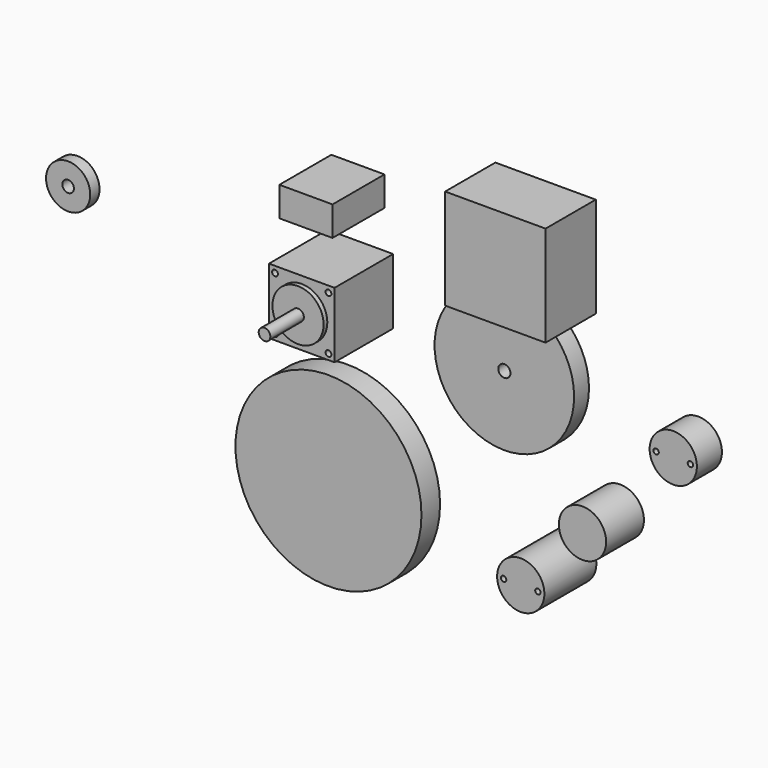
from build123d import *

# Parameters (mm, degrees)
F0_R      = 2.5
F1_DEPTH  = 51.5
F0_R_2    = 11
F2_DEPTH  = 33.5
F0_W      = 28.2
F0_H      = 28.2
F0_R_3    = 1.25
F3_DEPTH  = 31.5
F4_R      = 30
F4_R_2    = 2.6221966913
F5_DEPTH  = 8
F6_R      = 40
F7_DEPTH  = 10
F8_R      = 1.143
F9_DEPTH  = 27.94
F10_DEPTH = 20.32
F12_W     = 43.18
F12_H     = 43.18
F13_DEPTH = 27
F14_W     = 22.86
F14_H     = 12.7
F15_DEPTH = 27.94
F8_R_2    = 10.16
F16_DEPTH = 13.462
F6_R_2    = 9.5
F6_R_3    = 2.5
F17_DEPTH = 5


with BuildPart() as f1:
    # F0 (on Front) → F1 (new body)
    with BuildSketch(Plane.XZ):
        with Locations((-50.5721733682, 23.0338863699)):
            Circle(F0_R)
    extrude(amount=F1_DEPTH)

    # F0 (on Front) → F2 (join)
    with BuildSketch(Plane.XZ):
        with Locations((-50.5721733682, 23.0338863699)):
            Circle(F0_R_2)
        with Locations((-50.5721733682, 23.0338863699)):
            Circle(F0_R, mode=Mode.SUBTRACT)
    extrude(amount=F2_DEPTH)

    # F0 (on Front) → F3 (join)
    with BuildSketch(Plane.XZ):
        with Locations((-50.5721733682, 23.0338863699)):
            Rectangle(F0_W, F0_H)
        with Locations((-62.0710501321, 11.4279121988)):
            Circle(F0_R_3, mode=Mode.SUBTRACT)
        with Locations((-50.5721733682, 23.0338863699)):
            Circle(F0_R_2, mode=Mode.SUBTRACT)
        with BuildLine():
            ThreePointArc((-37.8210501321, 11.4279121988), (-39.0710501321, 10.1779121988), (-40.3210501321, 11.4279121988))
            ThreePointArc((-40.3210501321, 11.4279121988), (-39.0710501321, 12.6779121988), (-37.8210501321, 11.4279121988))
        make_face(mode=Mode.SUBTRACT)
        with Locations((-62.074133508, 34.4279121988)):
            Circle(F0_R_3, mode=Mode.SUBTRACT)
        with BuildLine():
            ThreePointArc((-37.824133508, 34.4279121988), (-39.074133508, 33.1779121988), (-40.324133508, 34.4279121988))
            ThreePointArc((-40.324133508, 34.4279121988), (-39.074133508, 35.6779121988), (-37.824133508, 34.4279121988))
        make_face(mode=Mode.SUBTRACT)
    extrude(amount=F3_DEPTH)


with BuildPart() as f5:
    # F4 (on Front) → F5 (new body)
    with BuildSketch(Plane.XZ):
        with Locations((17.754483968, 13.7335173786)):
            Circle(F4_R)
        with Locations((17.754483968, 13.7335173786)):
            Circle(F4_R_2, mode=Mode.SUBTRACT)
    extrude(amount=F5_DEPTH)


with BuildPart() as f7:
    # F6 (on Front) → F7 (new body)
    with BuildSketch(Plane.XZ):
        with Locations((-56.2841445208, -51.0401763022)):
            Circle(F6_R)
    extrude(amount=F7_DEPTH)


with BuildPart() as f9:
    # F8 (on Front) → F9 (new body)
    with BuildSketch(Plane.XZ):
        with BuildLine():
            ThreePointArc((30.6035824945, -51.7479740083), (40.7635824945, -61.9079740083), (50.9235824945, -51.7479740083))
            ThreePointArc((50.9235824945, -51.7479740083), (40.7635824945, -41.5879740083), (30.6035824945, -51.7479740083))
        make_face()
        with BuildLine():
            ThreePointArc((34.5405824945, -51.7479740083), (33.3975824945, -52.8909740083), (32.2545824945, -51.7479740083))
            ThreePointArc((32.2545824945, -51.7479740083), (33.3975824945, -50.6049740083), (34.5405824945, -51.7479740083))
        make_face(mode=Mode.SUBTRACT)
        with Locations((48.1295824945, -51.7479740083)):
            Circle(F8_R, mode=Mode.SUBTRACT)
    extrude(amount=F9_DEPTH)


with BuildPart() as f10:
    # F8 (on Front) → F10 (new body)
    with BuildSketch(Plane.XZ):
        with BuildLine():
            Line((51.0600908363, -28.5101998597), (71.3800908363, -28.5101998597))
            ThreePointArc((71.3800908363, -28.5101998597), (61.2200908363, -18.3501998597), (51.0600908363, -28.5101998597))
        make_face()
        with BuildLine():
            ThreePointArc((51.0600908363, -28.5101998597), (61.2200908363, -38.6701998597), (71.3800908363, -28.5101998597))
            Line((71.3800908363, -28.5101998597), (51.0600908363, -28.5101998597))
        make_face()
    extrude(amount=F10_DEPTH)


with BuildPart() as f13:
    # F12 (on Front) → F13 (new body)
    with BuildSketch(Plane.XZ):
        with Locations((29.0784827137, 64.4657322647)):
            Rectangle(F12_W, F12_H)
    extrude(amount=F13_DEPTH)


with BuildPart() as f15:
    # F14 (on Front) → F15 (new body)
    with BuildSketch(Plane.XZ):
        with Locations((-51.6138804179, 59.7105702839)):
            Rectangle(F14_W, F14_H)
    extrude(amount=F15_DEPTH)


with BuildPart() as f16:
    # F8 (on Front) → F16 (new body)
    with BuildSketch(Plane.XZ):
        with Locations((94.7554989491, 8.1351967528)):
            Circle(F8_R_2)
        with Locations((87.3894989491, 8.1351967528)):
            Circle(F8_R, mode=Mode.SUBTRACT)
        with BuildLine():
            ThreePointArc((103.2644989491, 8.1351967528), (102.1214989491, 6.9921967528), (100.9784989491, 8.1351967528))
            ThreePointArc((100.9784989491, 8.1351967528), (102.1214989491, 9.2781967528), (103.2644989491, 8.1351967528))
        make_face(mode=Mode.SUBTRACT)
    extrude(amount=F16_DEPTH)


with BuildPart() as f17:
    # F6 (on Front) → F17 (new body)
    with BuildSketch(Plane.XZ):
        with Locations((-172.2303181887, 20.6159949303)):
            Circle(F6_R_2)
        with Locations((-172.2303181887, 20.6159949303)):
            Circle(F6_R_3, mode=Mode.SUBTRACT)
    extrude(amount=F17_DEPTH)


solid = Compound([f1.part, f5.part, f7.part, f9.part, f10.part, f13.part, f15.part, f16.part, f17.part])
